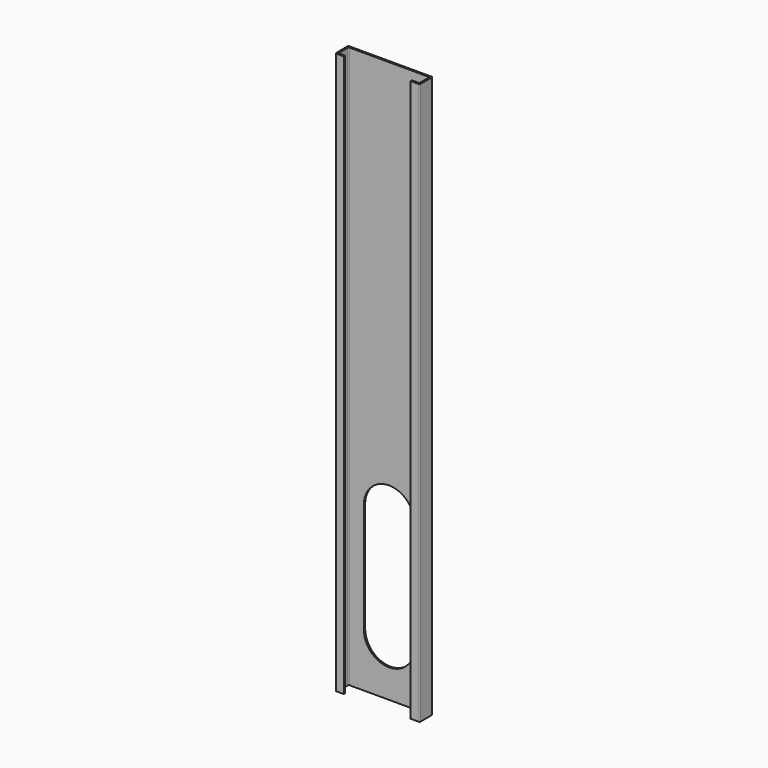
from build123d import *

# Parameters (mm, degrees)
F1_DEPTH = 666
F3_DEPTH = 2


with BuildPart() as f1:
    # F0 (on Top) → F1 (new body)
    with BuildSketch(Plane.XY):
        with BuildLine():
            Line((46.156122, 23.872672), (-51.843878, 23.872672))
            ThreePointArc((-51.843878, 23.872672), (-52.550985, 23.579779), (-52.843878, 22.872672))
            Line((-52.843878, 22.872672), (-52.843878, 5.772672))
            ThreePointArc((-52.843878, 5.772672), (-52.550985, 5.065565), (-51.843878, 4.772672))
            Line((-51.843878, 4.772672), (-42.843878, 4.772672))
            Line((-42.843878, 4.772672), (-42.843878, 6.772672))
            Line((-42.843878, 6.772672), (-49.843878, 6.772672))
            ThreePointArc((-49.843878, 6.772672), (-50.550985, 7.065565), (-50.843878, 7.772672))
            Line((-50.843878, 7.772672), (-50.843878, 20.872672))
            ThreePointArc((-50.843878, 20.872672), (-50.550985, 21.579779), (-49.843878, 21.872672))
            Line((-49.843878, 21.872672), (44.156122, 21.872672))
            ThreePointArc((44.156122, 21.872672), (44.863229, 21.579779), (45.156122, 20.872672))
            Line((45.156122, 20.872672), (45.156122, 7.772672))
            ThreePointArc((45.156122, 7.772672), (44.863229, 7.065565), (44.156122, 6.772672))
            Line((44.156122, 6.772672), (36.389313, 6.772672))
            Line((36.389313, 6.772672), (36.389313, 4.772672))
            Line((36.389313, 4.772672), (46.156122, 4.772672))
            ThreePointArc((46.156122, 4.772672), (46.863229, 5.065565), (47.156122, 5.772672))
            Line((47.156122, 5.772672), (47.156122, 22.872672))
            ThreePointArc((47.156122, 22.872672), (46.863229, 23.579779), (46.156122, 23.872672))
        make_face()
    extrude(amount=F1_DEPTH)

    # F2 (on face) → F3 (cut, through all)
    with BuildSketch(Plane.XZ.offset(-21.872672)):
        with BuildLine():
            ThreePointArc((-32.843878, 64), (-2.843878, 34), (27.156122, 64))
            Line((27.156122, 64), (27.156122, 194))
            ThreePointArc((27.156122, 194), (-2.843878, 224), (-32.843878, 194))
            Line((-32.843878, 194), (-32.843878, 64))
        make_face()
    extrude(amount=-F3_DEPTH, mode=Mode.SUBTRACT)


solid = f1.part
